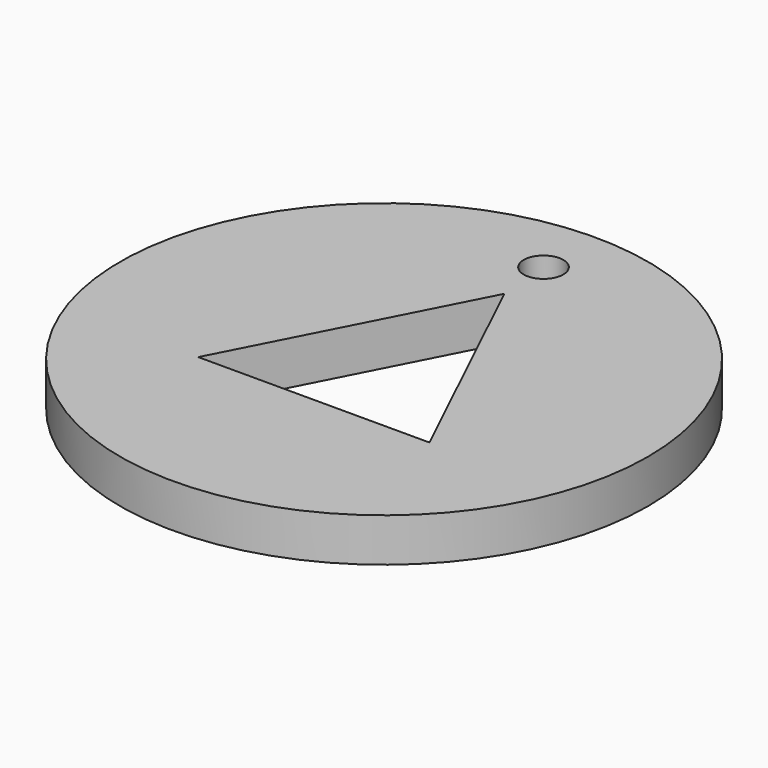
from build123d import *

# Parameters (mm, degrees)
CYLINDER_R      = 20
CYLINDER_DEPTH  = 3.3
SKETCH_R        = 1.5
POCKET_DEPTH    = 3.301
POCKET001_DEPTH = 5


with BuildPart() as part:
    # Cylinder → Cylinder (new body)
    with BuildSketch(Plane.XY):
        Circle(CYLINDER_R)
    extrude(amount=CYLINDER_DEPTH)

    # Sketch (on Face2 of Cylinder) → Pocket (cut, through all)
    with BuildSketch(Plane.XY.offset(3.3)):
        with Locations((0, 15.1)):
            Circle(SKETCH_R)
    extrude(amount=-POCKET_DEPTH, mode=Mode.SUBTRACT)

    # Sketch001 (on Face2 of Pocket) → Pocket001 (cut)
    with BuildSketch(Plane.XY.offset(3.3)):
        Polygon((0.318612, 10.995385), (-8.758163, -6.655418), (8.758163, -6.655418), align=None)
    extrude(amount=-POCKET001_DEPTH, mode=Mode.SUBTRACT)


solid = part.part
